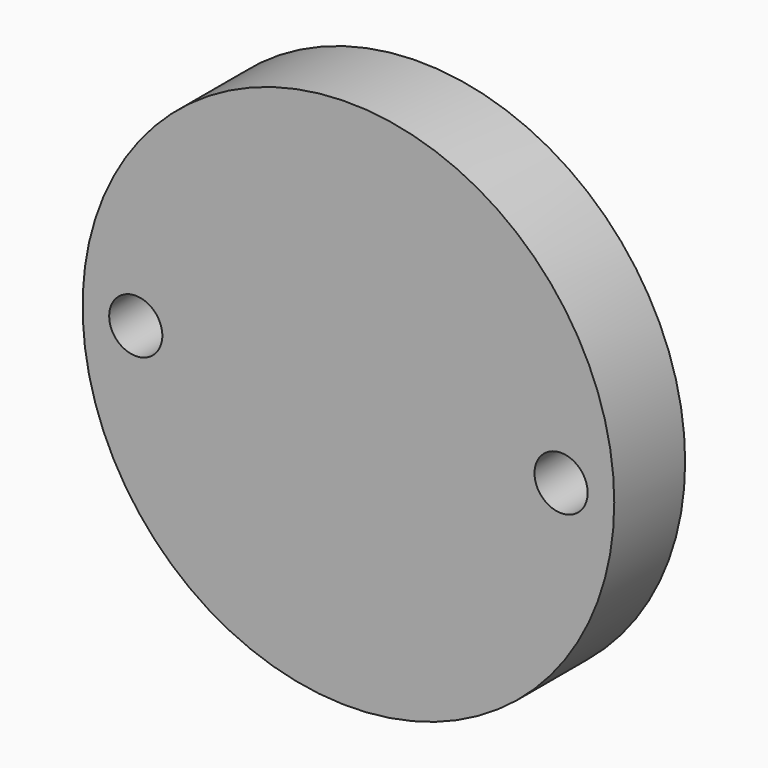
from build123d import *

# Parameters (mm, degrees)
F0_R     = 19.05
F1_DEPTH = 3.175
F2_D     = 3.81
F3_D     = 3.81


with BuildPart() as f1:
    # F0 (on Front) → F1 (new body, symmetric)
    with BuildSketch(Plane.XZ):
        Circle(F0_R)
    extrude(amount=F1_DEPTH, both=True)

    # F2 (through all)
    with Locations(Plane.XZ):
        with Locations((15.24, 0), (-15.24, 0)):
            Hole(F2_D / 2)

    # F3 (through all)
    with Locations(Plane(origin=(0, 0, 0), x_dir=(1, 0, 0), z_dir=(0, 1, 0))):
        with Locations((-15.24, 0), (15.24, 0)):
            Hole(F3_D / 2)


solid = f1.part
